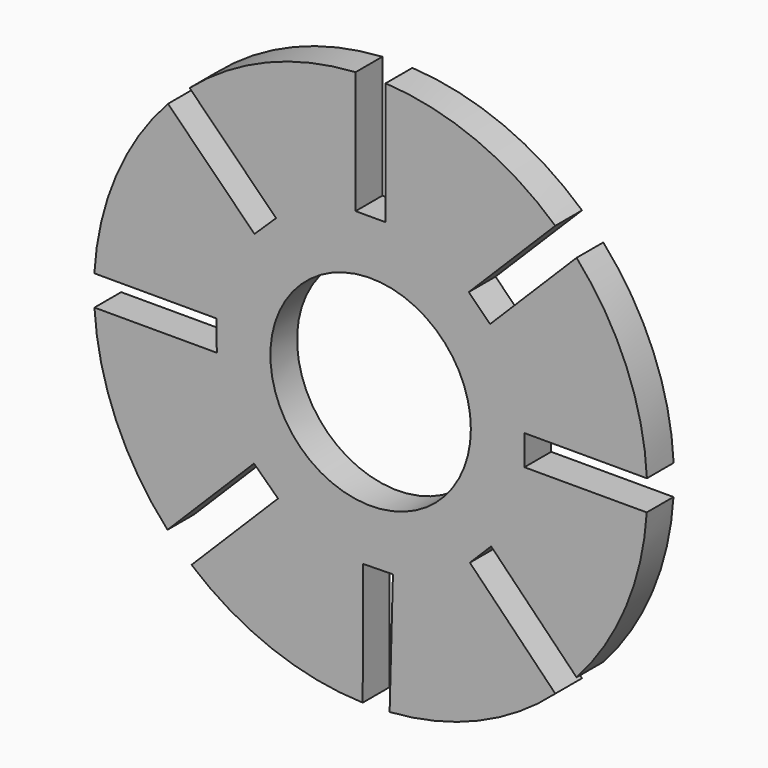
from build123d import *

# Parameters (mm, degrees)
F0_R     = 9
F1_DEPTH = 3


with BuildPart() as f1:
    # F0 (on Front) → F1 (new body)
    with BuildSketch(Plane.XZ):
        with BuildLine():
            Line((1.35, 24.837218), (1.35, 13.856218))
            Line((1.35, 13.856218), (-1.35, 13.856218))
            Line((-1.35, 13.856218), (-1.35, 24.837218))
            ThreePointArc((-1.35, 24.837218), (-9.30431, 23.022838), (-16.250873, 18.744019))
            Line((-16.250873, 18.744019), (-8.48636, 10.979053))
            Line((-8.48636, 10.979053), (-10.424493, 9.099692))
            Line((-10.424493, 9.099692), (-18.189233, 16.864432))
            ThreePointArc((-18.189233, 16.864432), (-22.849106, 9.663922), (-24.801066, 1.312179))
            Line((-24.801066, 1.312179), (-13.820066, 1.312179))
            Line((-13.820066, 1.312179), (-13.811545, -1.388101))
            Line((-13.811545, -1.388101), (-24.792545, -1.388101))
            ThreePointArc((-24.792545, -1.388101), (-22.854652, -9.674423), (-18.233002, -16.819974))
            Line((-18.233002, -16.819974), (-10.468263, -9.055235))
            Line((-10.468263, -9.055235), (-8.311446, -11.123312))
            Line((-8.311446, -11.123312), (-16.075972, -18.887838))
            ThreePointArc((-16.075972, -18.887838), (-8.894515, -23.145882), (-0.707747, -24.78329))
            Line((-0.707747, -24.78329), (-0.69587, -13.802296))
            Line((-0.69587, -13.802296), (2.003764, -13.757801))
            Line((2.003764, -13.757801), (1.70544, -24.734748))
            ThreePointArc((1.70544, -24.734748), (9.667631, -22.834323), (16.579394, -18.44848))
            Line((16.579394, -18.44848), (8.911142, -10.588437))
            Line((8.911142, -10.588437), (10.82033, -8.679249))
            Line((10.82033, -8.679249), (18.48873, -16.539148))
            ThreePointArc((18.48873, -16.539148), (22.915536, -9.529923), (24.788649, -1.4542))
            Line((24.788649, -1.4542), (13.807649, -1.4542))
            Line((13.807649, -1.4542), (13.823381, 1.245754))
            Line((13.823381, 1.245754), (24.804381, 1.2458))
            ThreePointArc((24.804381, 1.2458), (22.970893, 9.47684), (18.488676, 16.619769))
            Line((18.488676, 16.619769), (10.723937, 8.85503))
            Line((10.723937, 8.85503), (8.814749, 10.764218))
            Line((8.814749, 10.764218), (16.579488, 18.528958))
            ThreePointArc((16.579488, 18.528958), (9.50343, 22.98359), (1.35, 24.837218))
        make_face()
        Circle(F0_R, mode=Mode.SUBTRACT)
    extrude(amount=F1_DEPTH)


solid = f1.part
